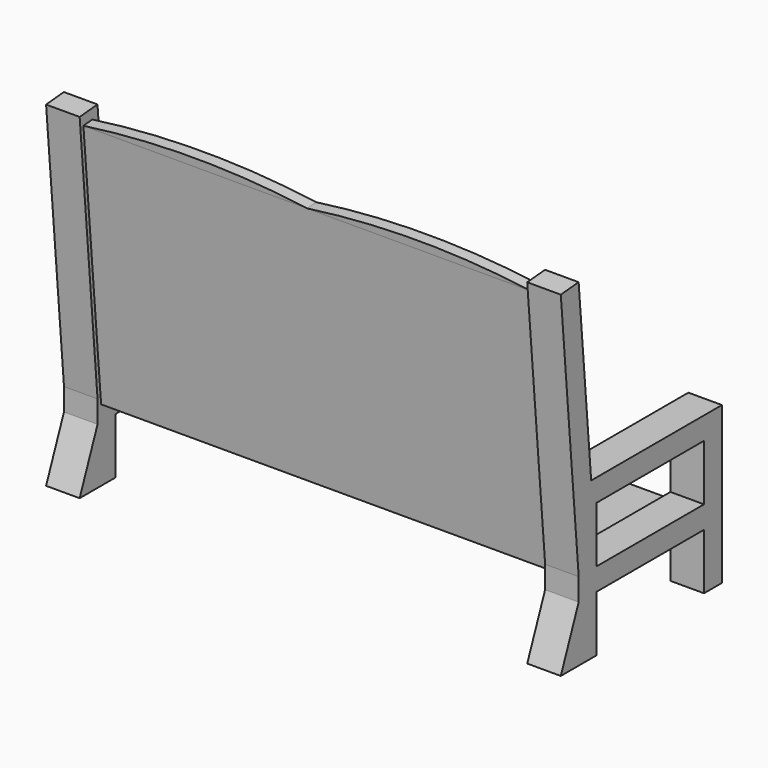
from build123d import *

# Parameters (mm, degrees)
F0_W     = 76.2
F0_H     = 31.75
F1_DEPTH = 19.05
F2_W     = 76.2
F2_H     = 6.35
F3_DEPTH = 127
F5_DEPTH = 6.35
F7_R     = 19.05
F8_DEPTH = 25.4
F9_R     = 0.635


with BuildPart() as f1:
    # F0 (on Right) → F1 (new body)
    with BuildSketch(Plane.YZ):
        Polygon((-12.7, 0), (0, 0), (12.7, 0), (12.7, 31.75), (88.9, 31.75), (88.9, 0), (101.6, 0), (101.6, 88.9), (8.849259, 88.9), (-0.047745, 191.600196), (-12.7, 190.5), (0, 44.45), (0, 31.75), align=None)
        with Locations((50.8, 60.325)):
            Rectangle(F0_W, F0_H, mode=Mode.SUBTRACT)
    extrude(amount=F1_DEPTH)

    # F2 (on face) → F3 (join)
    with BuildSketch(Plane(origin=(0, 0, 0), x_dir=(0, -1, 0), z_dir=(-1, 0, 0))):
        with Locations((-50.8, 38.1)):
            Rectangle(F2_W, F2_H)
        Polygon((3.697637, 185.564313), (-8.849259, 41.275), (-2.523132, 40.724902), (10.023765, 185.014215), align=None)
    extrude(amount=F3_DEPTH)

    # F4 (on face) → F5 (join)
    with BuildSketch(Plane(origin=(0, 12.345044, 1.073482), x_dir=(-1, 0, 0), z_dir=(0, 0.996241, 0.08663))):
        with BuildLine():
            Line((0, 185.187025), (127, 185.187025))
            ThreePointArc((127, 185.187025), (63.5, 189.87006), (0, 185.187025))
        make_face()
    extrude(amount=-F5_DEPTH)

    # F6: F1 across face


with BuildPart() as f1_1:
    add(f1.part)
    add(f1.part.mirror(Plane(origin=(-127, -0.587253, 113.144607), x_dir=(0, -1, 0), z_dir=(-1, 0, 0))))

    # F7 (on face) → F8 (cut)
    with BuildSketch(Plane.XY.offset(41.275)):
        with Locations((-190.5, 50.8)):
            Circle(F7_R)
        with Locations((-127, 50.8)):
            Circle(F7_R)
        with Locations((-63.5, 50.8)):
            Circle(F7_R)
    extrude(amount=-F8_DEPTH, mode=Mode.SUBTRACT)

    # F9
    f9_edges = [f1_1.edges().sort_by_distance(p)[0] for p in [
        (-127, 88.9, 41.275),
    ]]
    fillet(f9_edges, radius=F9_R)


solid = f1_1.part
